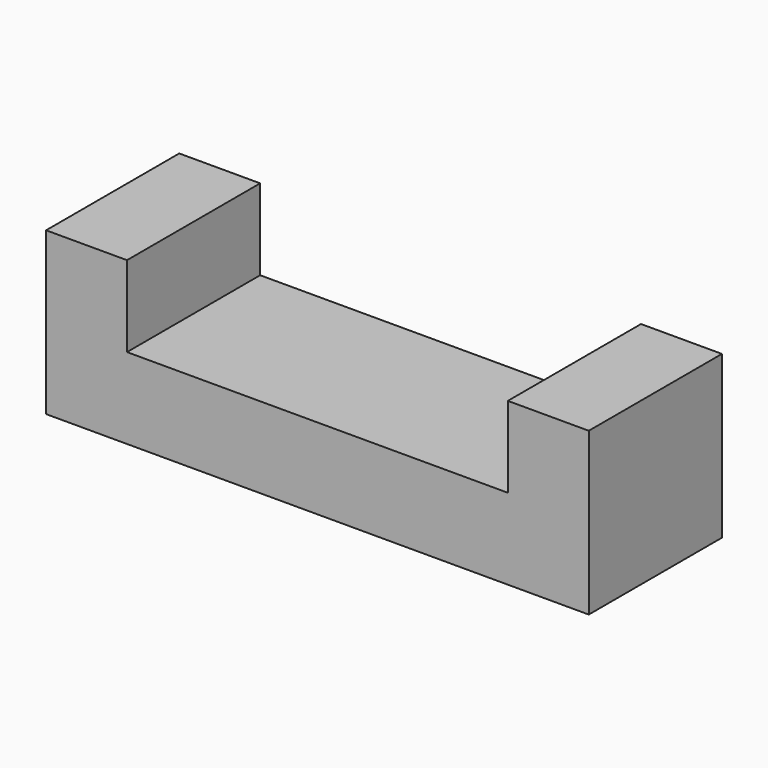
from build123d import *

# Parameters (mm, degrees)
SKETCH_W        = 134.142136
SKETCH_H        = 41.142136
PAD_DEPTH       = 20
SKETCH001_W     = 20
SKETCH001_H     = 41.142136
PAD001_DEPTH    = 20
SKETCH002_W     = 123
SKETCH002_H     = 30
POCKET_DEPTH    = 6
SKETCH003_R     = 2.1463
POCKET001_DEPTH = 10


with BuildPart() as part:
    # Sketch → Pad (new body)
    with BuildSketch(Plane.XY):
        Rectangle(SKETCH_W, SKETCH_H)
    extrude(amount=PAD_DEPTH)

    # Sketch001 (on Face6 of Pad) → Pad001 (join)
    with BuildSketch(Plane.XY.offset(20)):
        with Locations((-57.071068, 0)):
            Rectangle(SKETCH001_W, SKETCH001_H)
        with Locations((57.071068, 0)):
            Rectangle(SKETCH001_W, SKETCH001_H)
    extrude(amount=PAD001_DEPTH)

    # Sketch002 (on Face4 of Pad001) → Pocket (cut)
    with BuildSketch(Plane(origin=(0, 0, 0), x_dir=(1, 0, 0), z_dir=(0, 0, -1))):
        Rectangle(SKETCH002_W, SKETCH002_H)
    extrude(amount=-POCKET_DEPTH, mode=Mode.SUBTRACT)

    # Sketch003 (on Face1 of Pocket) → Pocket001 (cut)
    with BuildSketch(Plane(origin=(0, 20.571068, 0), x_dir=(-1, 0, 0), z_dir=(0, 1, 0))):
        with Locations((-57.071068, 10)):
            Circle(SKETCH003_R)
        with Locations((57.071068, 10)):
            Circle(SKETCH003_R)
    extrude(amount=-POCKET001_DEPTH, mode=Mode.SUBTRACT)


solid = part.part
